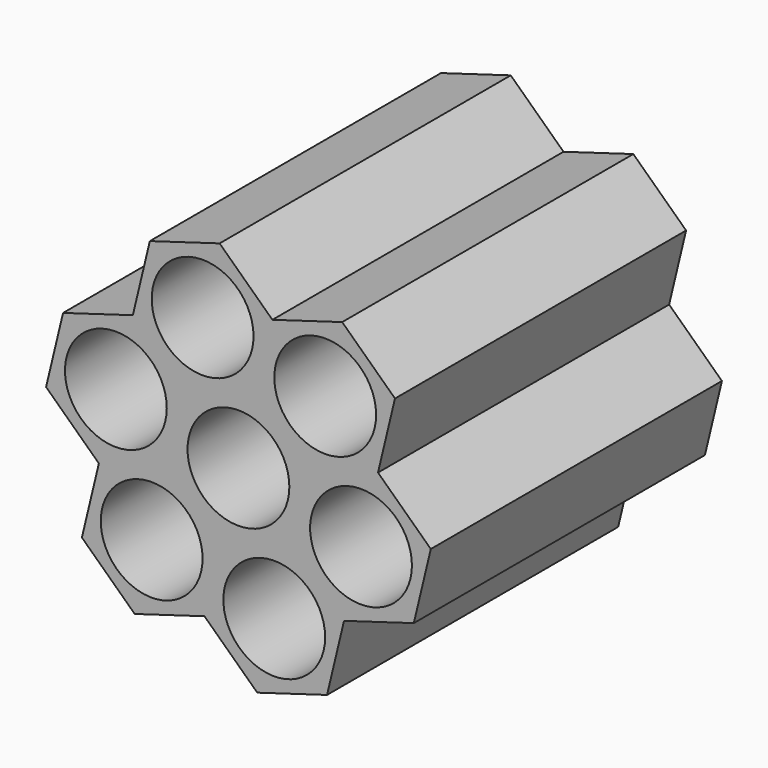
from build123d import *

# Parameters (mm, degrees)
F0_R     = 10.658227
F1_DEPTH = 76.2


with BuildPart() as f1:
    # F0 (on Front) → F1 (new body)
    with BuildSketch(Plane.XZ):
        Polygon((-47.944785, 43.843842), (-36.889297, 33.354142), (-22.277207, 37.683625), (-18.720605, 52.502808), (-29.776092, 62.992508), (-44.388182, 58.663024), align=None)
        with Locations((-33.332695, 48.173325)):
            Circle(F0_R, mode=Mode.SUBTRACT)
        Polygon((-40.4459, 18.534959), (-36.889297, 33.354142), (-47.944785, 43.843842), (-62.556875, 39.514358), (-66.113477, 24.695176), (-55.05799, 14.205476), align=None)
        with Locations((-51.501387, 29.024659)):
            Circle(F0_R, mode=Mode.SUBTRACT)
        Polygon((-22.277207, 37.683625), (-36.889297, 33.354142), (-40.4459, 18.534959), (-29.390412, 8.04526), (-14.778322, 12.374743), (-11.22172, 27.193926), align=None)
        with Locations((-25.83381, 22.864443)):
            Circle(F0_R, mode=Mode.SUBTRACT)
        Polygon((-29.390412, 8.04526), (-40.4459, 18.534959), (-55.05799, 14.205476), (-58.614592, -0.613707), (-47.559105, -11.103406), (-32.947015, -6.773923), align=None)
        with Locations((-44.002502, 3.715776)):
            Circle(F0_R, mode=Mode.SUBTRACT)
        Polygon((-14.778322, 12.374743), (-29.390412, 8.04526), (-32.947015, -6.773923), (-21.891527, -17.263623), (-7.279437, -12.934139), (-3.722835, 1.885043), align=None)
        with Locations((-18.334925, -2.44444)):
            Circle(F0_R, mode=Mode.SUBTRACT)
        Polygon((3.39037, 31.523409), (-11.22172, 27.193926), (-14.778322, 12.374743), (-3.722835, 1.885043), (10.889255, 6.214527), (14.445858, 21.03371), align=None)
        with Locations((-0.166232, 16.704226)):
            Circle(F0_R, mode=Mode.SUBTRACT)
        Polygon((-18.720605, 52.502808), (-22.277207, 37.683625), (-11.22172, 27.193926), (3.39037, 31.523409), (6.946973, 46.342592), (-4.108515, 56.832291), align=None)
        with Locations((-7.665117, 42.013109)):
            Circle(F0_R, mode=Mode.SUBTRACT)
    extrude(amount=F1_DEPTH)


solid = f1.part
